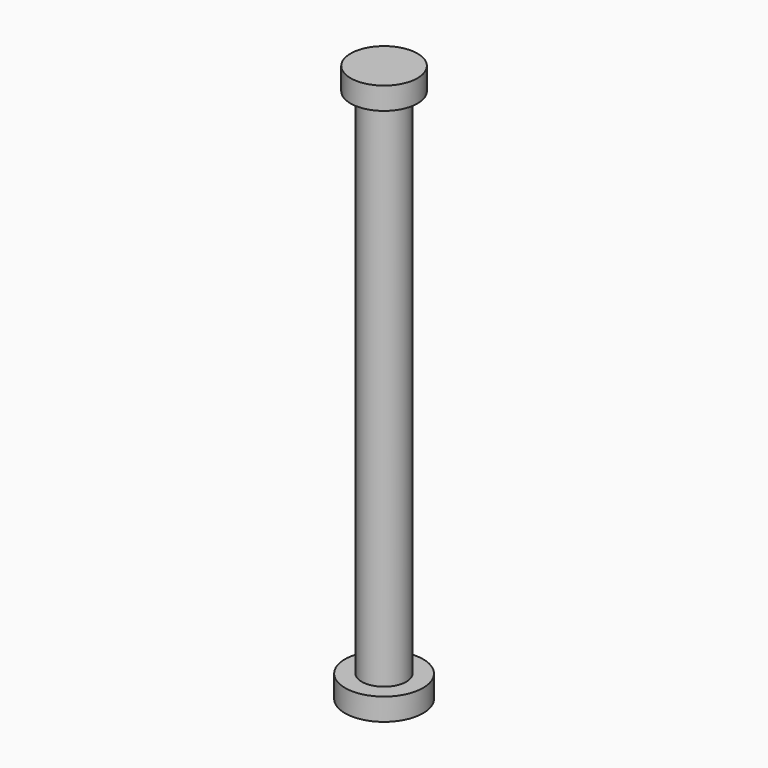
from build123d import *

# Parameters (mm, degrees)
F0_R     = 4
F1_DEPTH = 50
F2_R     = 6
F3_DEPTH = 4
F4_R     = 7
F5_DEPTH = 4


with BuildPart() as f1:
    # F0 (on Top) → F1 (new body, symmetric)
    with BuildSketch(Plane.XY):
        Circle(F0_R)
    extrude(amount=F1_DEPTH, both=True)

    # F2 (on face) → F3 (join)
    with BuildSketch(Plane.XY.offset(50)):
        Circle(F2_R)
    extrude(amount=-F3_DEPTH)

    # F4 (on face) → F5 (join)
    with BuildSketch(Plane(origin=(0, 0, -50), x_dir=(1, 0, 0), z_dir=(0, 0, -1))):
        Circle(F4_R)
    extrude(amount=-F5_DEPTH)


solid = f1.part
